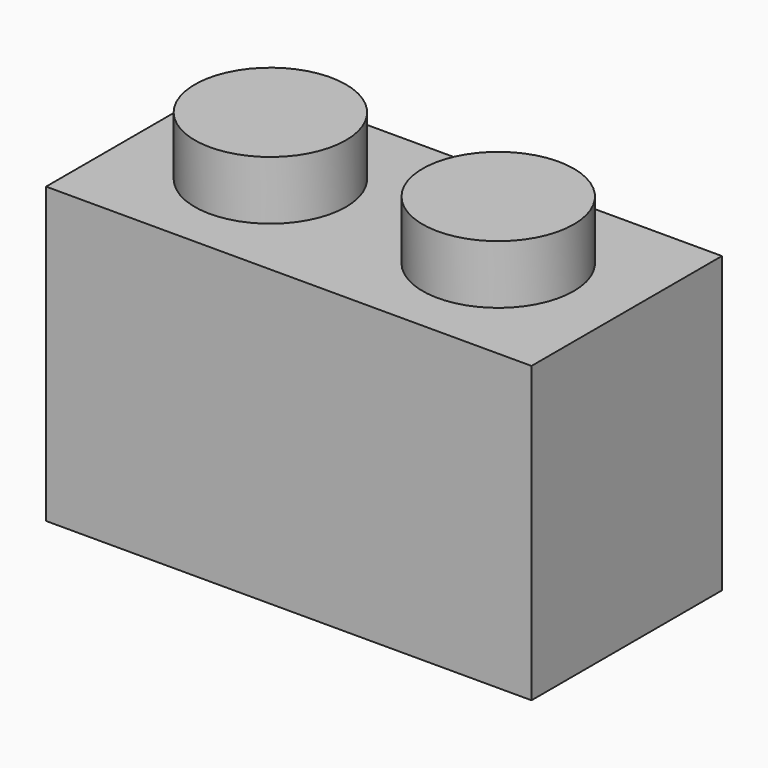
from build123d import *

# Parameters (mm, degrees)
F0_W     = 15.748
F0_H     = 7.7216
F1_DEPTH = 9.5504
F2_R     = 2.4511
F3_DEPTH = 1.905
F4_R     = 2.4511
F5_DEPTH = 1.905
F6_W     = 12.8016
F6_H     = 4.7498
F7_DEPTH = 7.62
F8_R     = 1.4859
F9_DEPTH = 7.62


with BuildPart() as f1:
    # F0 (on Top) → F1 (new body)
    with BuildSketch(Plane.XY):
        Rectangle(F0_W, F0_H)
    extrude(amount=F1_DEPTH)

    # F2 (on face) → F3 (join)
    with BuildSketch(Plane.XY.offset(9.5504)):
        with Locations((-3.6957, 0.0127)):
            Circle(F2_R)
    extrude(amount=F3_DEPTH)

    # F4 (on face) → F5 (join)
    with BuildSketch(Plane.XY.offset(9.5504)):
        with Locations((3.6957, 0.0127)):
            Circle(F4_R)
    extrude(amount=F5_DEPTH)

    # F6 (on face) → F7 (cut)
    with BuildSketch(Plane(origin=(0, 0, 0), x_dir=(1, 0, 0), z_dir=(0, 0, -1))):
        Rectangle(F6_W, F6_H)
    extrude(amount=-F7_DEPTH, mode=Mode.SUBTRACT)

    # F8 (on face) → F9 (join)
    with BuildSketch(Plane(origin=(0, 0, 7.62), x_dir=(1, 0, 0), z_dir=(0, 0, -1))):
        Circle(F8_R)
    extrude(amount=F9_DEPTH)


solid = f1.part
